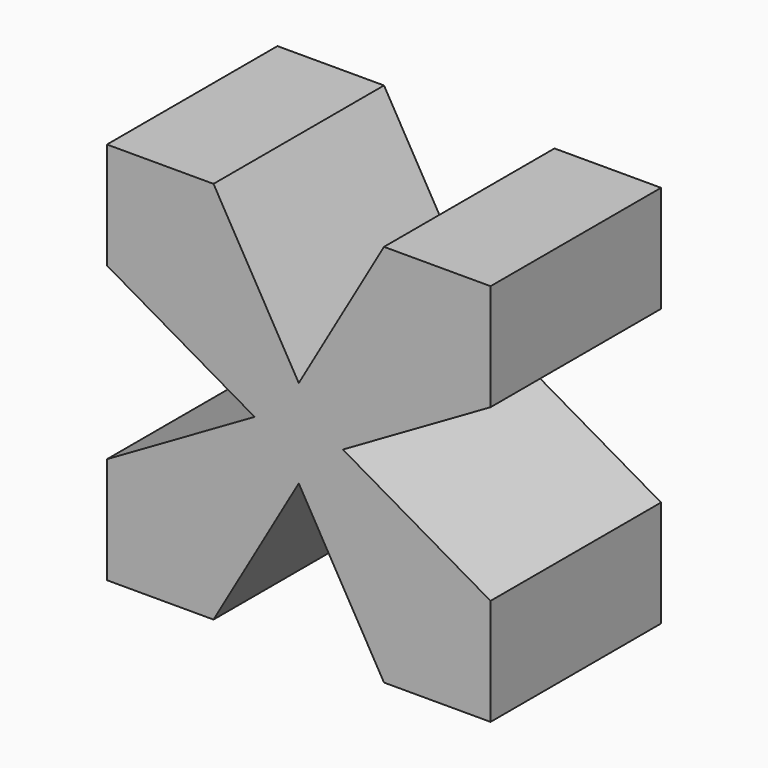
from build123d import *

# Parameters (mm, degrees)
F1_DEPTH = 30


with BuildPart() as f1:
    # F0 (on Front) → F1 (new body)
    with BuildSketch(Plane.XZ):
        Polygon((12, 27), (0, 6.21539), (-12, 27), (-27, 27), (-27, 12), (-6.21539, 0), (-27, -12), (-27, -27), (-12, -27), (0, -6.21539), (12, -27), (27, -27), (27.000002, -12), (6.215392, -1e-06), (27.000001, 12), (27, 27), align=None)
    extrude(amount=F1_DEPTH)


solid = f1.part
